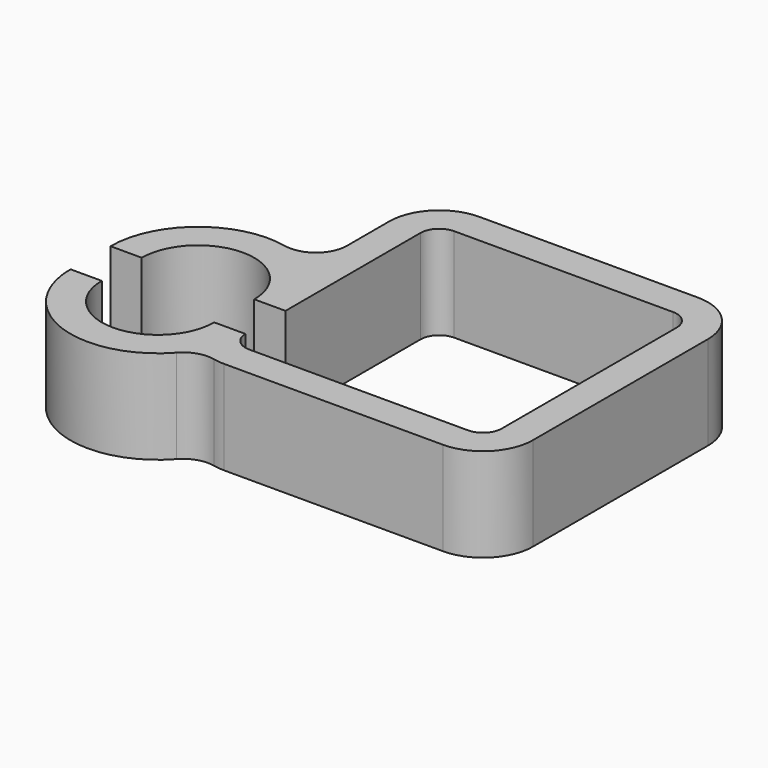
from build123d import *

# Parameters (mm, degrees)
F1_DEPTH = 15


with BuildPart() as f1:
    # F0 (on Top) → F1 (new body)
    with BuildSketch(Plane.XY):
        with BuildLine():
            ThreePointArc((20.5, -17.5), (19.62132, -19.62132), (17.5, -20.5))
            Line((17.5, -20.5), (-17.5, -20.5))
            ThreePointArc((-17.5, -20.5), (-19.62132, -19.62132), (-20.5, -17.5))
            Line((-20.5, -17.5), (-25.5, -17.5))
            ThreePointArc((-25.5, -17.5), (-34.5, -26.5), (-43.5, -17.5))
            Line((-43.5, -17.5), (-48.5, -17.5))
            ThreePointArc((-48.5, -17.5), (-39.503095, -30.575513), (-24.075852, -26.845433))
            ThreePointArc((-24.075852, -26.845433), (-21.875021, -25.420392), (-19.255656, -25.304977))
            ThreePointArc((-19.255656, -25.304977), (-18.383227, -25.451095), (-17.5, -25.5))
            Line((-17.5, -25.5), (17.5, -25.5))
            ThreePointArc((17.5, -25.5), (23.156854, -23.156854), (25.5, -17.5))
            Line((25.5, -17.5), (25.5, 17.5))
            ThreePointArc((25.5, 17.5), (23.156854, 23.156854), (17.5, 25.5))
            Line((17.5, 25.5), (-17.5, 25.5))
            ThreePointArc((-17.5, 25.5), (-23.156854, 23.156854), (-25.5, 17.5))
            Line((-25.5, 17.5), (-25.5, 9.074176))
            ThreePointArc((-25.5, 9.074176), (-27.358596, 5.184242), (-31.552632, 4.186235))
            ThreePointArc((-31.552632, 4.186235), (-43.295932, 1.391812), (-48.5, -9.5))
            Line((-48.5, -9.5), (-43.5, -9.5))
            ThreePointArc((-43.5, -9.5), (-34.5, -0.5), (-25.5, -9.5))
            Line((-25.5, -9.5), (-20.5, -9.5))
            Line((-20.5, -9.5), (-20.5, 17.5))
            ThreePointArc((-20.5, 17.5), (-19.62132, 19.62132), (-17.5, 20.5))
            Line((-17.5, 20.5), (17.5, 20.5))
            ThreePointArc((17.5, 20.5), (19.62132, 19.62132), (20.5, 17.5))
            Line((20.5, 17.5), (20.5, -17.5))
        make_face()
    extrude(amount=F1_DEPTH)


solid = f1.part
